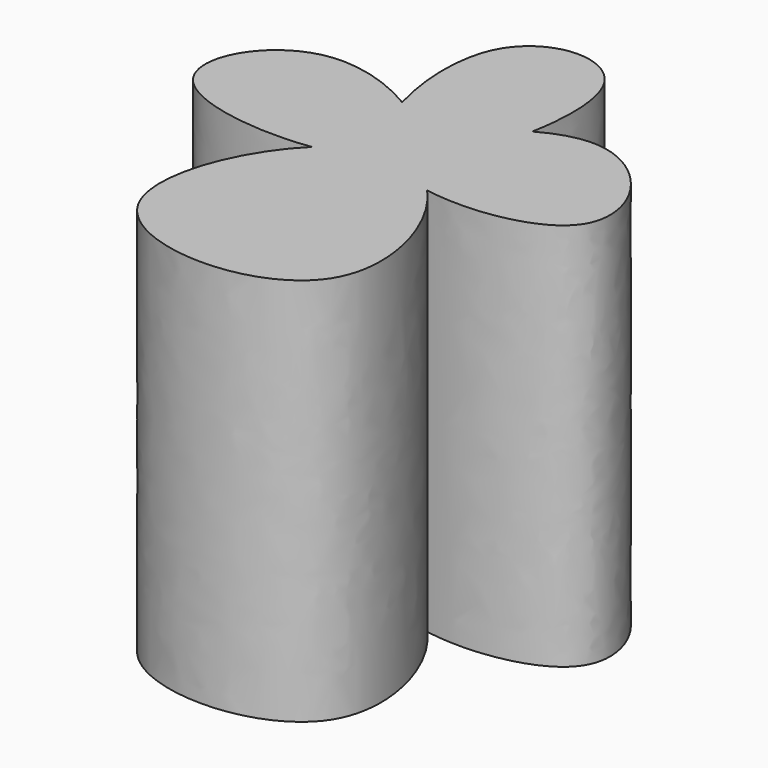
from build123d import *

# Parameters (mm, degrees)
F1_DEPTH = 83.82
F3_DEPTH = 83.82
F5_DEPTH = 83.82
F7_DEPTH = 83.82


with BuildPart() as f1:
    # F0 (on Top) → F1 (new body)
    with BuildSketch(Plane.XY):
        with BuildLine():
            add(Edge.make_bspline(
                [(0, 0), (-4.542251788, 8.6722579806), (25.117162513, 40.4067182608), (57.4362688361, -9.8415354303), (4.9192483223, -9.3920356053), (0, 0)],
                knots=[0, 0, 0, 0, 0.3322910196, 0.640129584, 1, 1, 1, 1], degree=3))
        make_face()
    extrude(amount=F1_DEPTH)

    # F2 (on Top) → F3 (join)
    with BuildSketch(Plane.XY):
        with BuildLine():
            add(Edge.make_bspline(
                [(0, 0), (3.5360873129, 8.1108450651), (-33.7354607969, 35.4127978008), (-59.3875210851, -9.8435318092), (-3.8030915501, -8.7232818657), (0, 0)],
                knots=[0, 0, 0, 0, 0.3467803128, 0.6270348663, 1, 1, 1, 1], degree=3))
        make_face()
    extrude(amount=F3_DEPTH)

    # F4 (on Top) → F5 (join)
    with BuildSketch(Plane.XY):
        with BuildLine():
            add(Edge.make_bspline(
                [(0, 0), (-8.7551870735, -0.2972169463), (-23.8915766626, 48.9198558265), (24.0835572587, 51.8182670564), (8.8958321097, 0.3019914974), (0, 0)],
                knots=[0, 0, 0, 0, 0.3649799766, 0.6291569137, 1, 1, 1, 1], degree=3))
        make_face()
    extrude(amount=F5_DEPTH)

    # F6 (on Top) → F7 (join)
    with BuildSketch(Plane.XY):
        with BuildLine():
            add(Edge.make_bspline(
                [(0, 0), (-14.5424313234, 0.4322577323), (-45.1730729091, -53.0143331062), (40.5602157338, -54.8459450659), (14.4151869246, -0.4284755329), (0, 0)],
                knots=[0, 0, 0, 0, 0.3393626771, 0.6636067025, 1, 1, 1, 1], degree=3))
        make_face()
    extrude(amount=F7_DEPTH)


solid = f1.part
